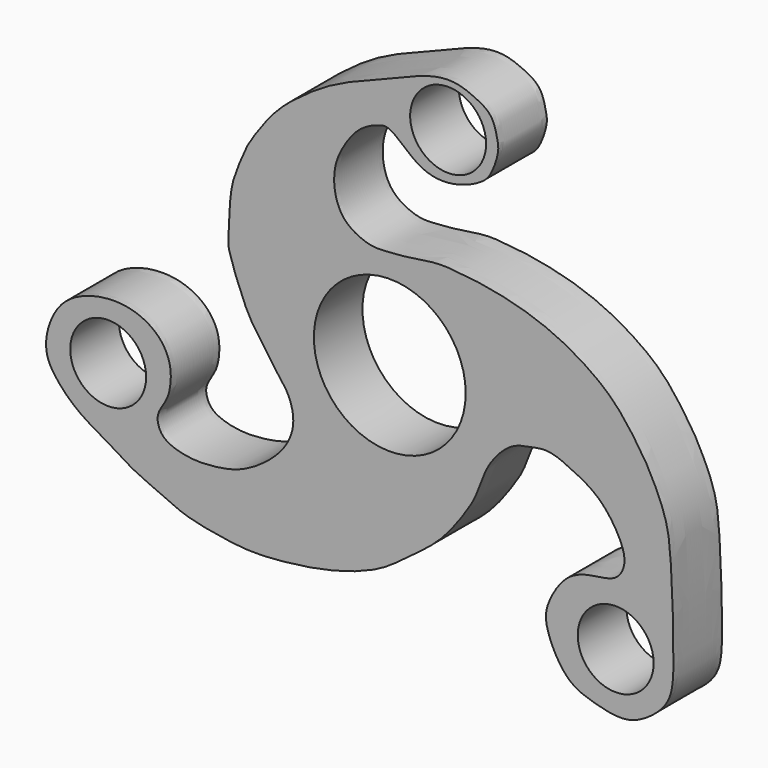
from build123d import *

# Parameters (mm, degrees)
F0_R     = 6.35
F0_R_2   = 12.7
F1_DEPTH = 10.16


with BuildPart() as f1:
    # F0 (on Front) → F1 (new body)
    with BuildSketch(Plane.XZ):
        with BuildLine():
            add(Edge.make_bspline(
                [(0, 34.7289068795), (1.2521254161, 34.1620364114), (4.6747658348, 30.3166618548), (10.3171981632, 29.5759179882), (15.547358888, 31.7894219538), (17.1278084161, 33.8005212874), (18.3162520698, 37.3156123019), (18.0177138195, 39.0661556324), (17.2919869373, 42.4629638533), (14.2911743129, 44.111569174), (10.6412750724, 45.5517553799), (5.8822353125, 44.7462778868), (1.088773557, 42.555930884), (-4.1414172988, 40.6425093184), (-9.9076354794, 38.1945340026), (-14.8006570286, 34.8768920389), (-19.197258098, 31.4013289747), (-22.7351255595, 26.4158364657), (-24.0455164156, 24.3105394977), (-25.4618812484, 20.8324144314), (-26.853662001, 17.1865782324), (-26.9369823393, 9.7246373295), (-27.1251500212, 8.2576945313), (-23.8328378019, -0.4923179708), (-21.7287365858, -2.9411866456), (-18.7888223968, -7.5255132262), (-16.7681324295, -9.7119363712), (-15.5703298502, -14.2896368592), (-18.1925391349, -19.3538860847), (-23.91791133, -23.3160352952), (-27.7845299809, -24.355562463), (-32.5472080442, -24.8218989526), (-36.4072741246, -23.961201875), (-38.3534796345, -22.6441646688), (-39.0544825148, -20.4458154325), (-38.4429004433, -18.9118891679), (-37.2269770467, -17.1580594922), (-36.7098336656, -15.3452266873), (-36.4470608699, -12.1126085668), (-38.0310406387, -8.5493789111), (-41.640584012, -6.0223550898), (-46.4182975459, -5.1981894994), (-51.7383176248, -6.2779679375), (-56.1246152378, -9.3674531892), (-58.2340198717, -16.072228565), (-55.9560855717, -20.2625091622), (-51.8022540435, -24.2559107846), (-47.0565530095, -26.5993292051), (-43.2665858667, -29.3918003628), (-37.5937488421, -31.6089562734), (-34.2567252121, -33.4543650011), (-25.3688348828, -35.0417591394), (-20.0677956381, -34.9887075786), (-13.7990971296, -34.2892372128), (-7.7323297087, -33.0311494402), (-1.333471932, -30.6415761805), (3.0105372453, -27.2275997868), (8.4647890831, -23.3571416997), (12.0417693397, -18.51553546), (14.5834834017, -14.7108445123), (15.981812576, -9.6643316255), (18.9023233967, -6.2704567526), (21.1058746249, -4.8087079001), (23.9231936682, -4.3312734585), (26.74430349, -3.7448918742), (31.0045783707, -5.6811280759), (35.2253929635, -8.0032851284), (38.2746872501, -12.2928692474), (39.7703994588, -16.1465958271), (38.0654014344, -19.5602219356), (33.9145195975, -19.7908714053), (29.3969208642, -21.0700078038), (26.3322646396, -26.2010696213), (25.7401196077, -29.8579559195), (29.1496089242, -36.7673516366), (33.3323547047, -38.4133190906), (37.4513581081, -39.4531410969), (40.2466620076, -39.3537866859), (42.7249843953, -38.1741633993), (45.1089980887, -36.4081542686), (47.3091654126, -33.5884888154), (47.5198089114, -28.1620421514), (47.3931077325, -20.9170802505), (47.0719353775, -14.5489040041), (46.6591209475, -8.197321009), (44.2187936579, -2.9085027365), (42.7337808287, 2.44992e-05), (38.5190785709, 6.0954199124), (34.5538258786, 9.4874160951), (29.521051988, 12.7073307248), (24.3134450911, 14.8632140467), (20.0451352251, 16.082708173), (15.3770451223, 17.001180401), (11.957175961, 17.3640971324), (7.8172219788, 17.7443549465), (4.1833552454, 16.9143995894), (0.0073424016, 16.6335366609), (-3.0224936884, 16.3584720611), (-6.0963882384, 17.6327269557), (-8.0108287165, 19.2771125178), (-9.1249749115, 21.7791291726), (-9.4268106596, 24.6432716517), (-8.937284464, 27.6226357854), (-7.1235162053, 30.8876782794), (-4.8520477807, 33.5495682065), (-1.9534505399, 34.7758927009), (-0.7082519092, 35.0495513503), (0, 34.7289068795)],
                knots=[0, 0, 0, 0, 0.0112352662, 0.0221626337, 0.0326917782, 0.0400413447, 0.0485401114, 0.0547668207, 0.0629009884, 0.0711718404, 0.08013468, 0.0900154019, 0.1005356201, 0.1113728605, 0.1228233665, 0.1339032393, 0.1449141873, 0.1560376762, 0.1633129038, 0.1718106808, 0.1813299332, 0.1934162716, 0.1996262524, 0.2131017852, 0.2220855222, 0.2323835917, 0.2404166358, 0.2498152201, 0.2605565562, 0.2724752014, 0.2816757354, 0.2916213509, 0.3006669448, 0.3074862611, 0.3140638997, 0.3198591379, 0.3264328439, 0.3327099222, 0.3407965824, 0.3496719682, 0.3590678838, 0.3690498774, 0.3795605788, 0.3900094695, 0.4015871014, 0.4112880245, 0.4221878494, 0.4326671393, 0.4427041982, 0.4537287409, 0.4629228994, 0.4764068325, 0.4872406555, 0.49851221, 0.5100398565, 0.5218581861, 0.5326469731, 0.5444507058, 0.5556351453, 0.5653978177, 0.5758289952, 0.5853846924, 0.5927136645, 0.6002837054, 0.6079313725, 0.6176346151, 0.6277770042, 0.6382103846, 0.64730594, 0.6553561782, 0.6643438264, 0.6741821849, 0.6849316287, 0.6937371247, 0.7059349983, 0.7156281191, 0.7249392765, 0.7324866909, 0.7399256068, 0.7477694882, 0.756127435, 0.7666482967, 0.7790732673, 0.7907129699, 0.8023012949, 0.8130642149, 0.8214986267, 0.8337263281, 0.8443999828, 0.855497247, 0.8663468877, 0.8760577544, 0.8859269839, 0.8944975883, 0.9036805375, 0.9126055921, 0.9219155121, 0.9299147924, 0.9380698378, 0.945274322, 0.9527034917, 0.9604134962, 0.968307943, 0.9771157563, 0.9857088706, 0.9936448868, 1, 1, 1, 1], degree=3))
        make_face()
        with Locations((-47.1083410084, -15.01293201)):
            Circle(F0_R, mode=Mode.SUBTRACT)
        with Locations((37.7923436463, -29.5327659696)):
            Circle(F0_R, mode=Mode.SUBTRACT)
        Circle(F0_R_2, mode=Mode.SUBTRACT)
        with Locations((9.7610009834, 37.8231219947)):
            Circle(F0_R, mode=Mode.SUBTRACT)
    extrude(amount=F1_DEPTH)


solid = f1.part
